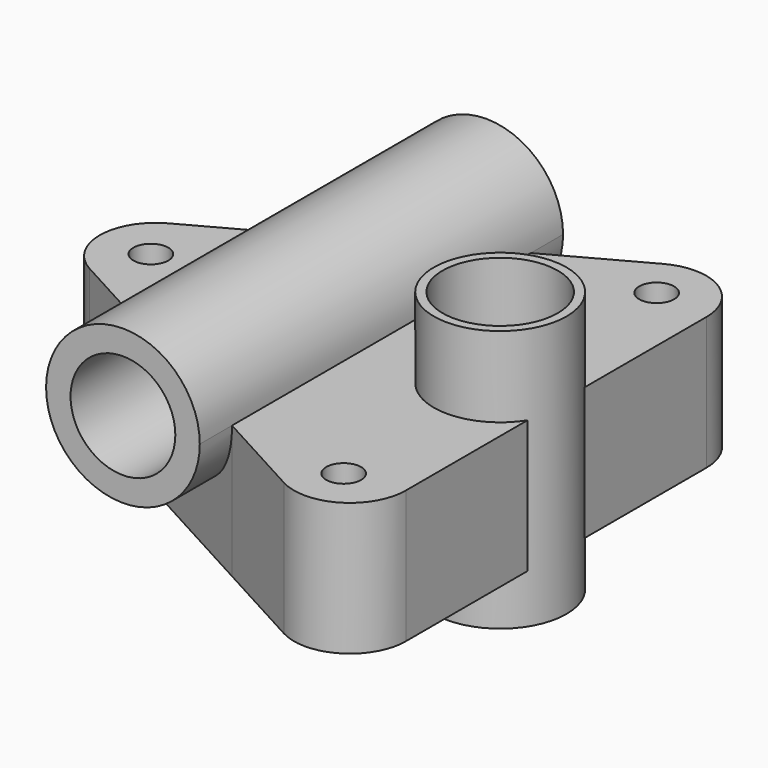
from build123d import *

# Parameters (mm, degrees)
F1_R     = 5
F3_DEPTH = 38
F0_R     = 15
F4_DEPTH = 65
F5_DEPTH = 65
F6_DEPTH = 65
F7_R     = 16


with BuildPart() as f2:
    # F0 (on Front) → F2 (revolve)
    with BuildSketch(Plane.XZ):
        Polygon((75, 23), (72.5, 23), (72.5, -17), (72.5, -38), (72.5, -52), (75, -52), align=None)
    revolve(axis=Axis((56, 0, -14.5), (0, 0, -1)))

    # F1 (on Top) → F3 (join)
    with BuildSketch(Plane.XY):
        Polygon((-22, -29.475761), (-22, 29.475761), (-76.065856, 0), align=None)
        with Locations((-44, 0)):
            Circle(F1_R, mode=Mode.SUBTRACT)
        Polygon((22, -53.463793), (22, 53.463793), (-22, 29.475761), (-22, -29.475761), align=None)
        with BuildLine():
            ThreePointArc((72, -4.031129), (39.5, 0), (72, 4.031129))
            Line((72, 4.031129), (72, 80.722921))
            Line((72, 80.722921), (22, 53.463793))
            Line((22, 53.463793), (22, -53.463793))
            Line((22, -53.463793), (72, -80.722921))
            Line((72, -80.722921), (72, -4.031129))
        make_face()
        with Locations((56, -56)):
            Circle(F1_R, mode=Mode.SUBTRACT)
        with Locations((56, 56)):
            Circle(F1_R, mode=Mode.SUBTRACT)
    extrude(amount=-F3_DEPTH)

    # F0 (on Front) → F4 (cut, symmetric)
    with BuildSketch(Plane.XZ):
        Circle(F0_R)
    extrude(amount=F4_DEPTH, both=True, mode=Mode.SUBTRACT)

    # F0 (on Front) → F5 (join, symmetric)
    with BuildSketch(Plane.XZ):
        with BuildLine():
            ThreePointArc((13.96424, -17), (19.889863, -9.401774), (22, 0))
            ThreePointArc((22, 0), (0, 22), (-22, 0))
            ThreePointArc((-22, 0), (-9.401774, -19.889863), (13.96424, -17))
        make_face()
        Circle(F0_R, mode=Mode.SUBTRACT)
    extrude(amount=F5_DEPTH, both=True)

    # F1 (on Top) → F6 (cut, symmetric)
    with BuildSketch(Plane.XY):
        with BuildLine():
            ThreePointArc((72, -4.031129), (72.374523, -2.03101), (72.5, 0))
            ThreePointArc((72.5, 0), (72.374523, 2.03101), (72, 4.031129))
            Line((72, 4.031129), (72, 0))
            Line((72, 0), (72, -4.031129))
        make_face()
    extrude(amount=F6_DEPTH, both=True, mode=Mode.SUBTRACT)

    # F7
    f7_edges = [f2.edges().sort_by_distance(p)[0] for p in [
        (-76.065856, 0, -19),
        (72, -80.722921, -19),
        (72, 80.722921, -19),
    ]]
    fillet(f7_edges, radius=F7_R)


solid = f2.part
